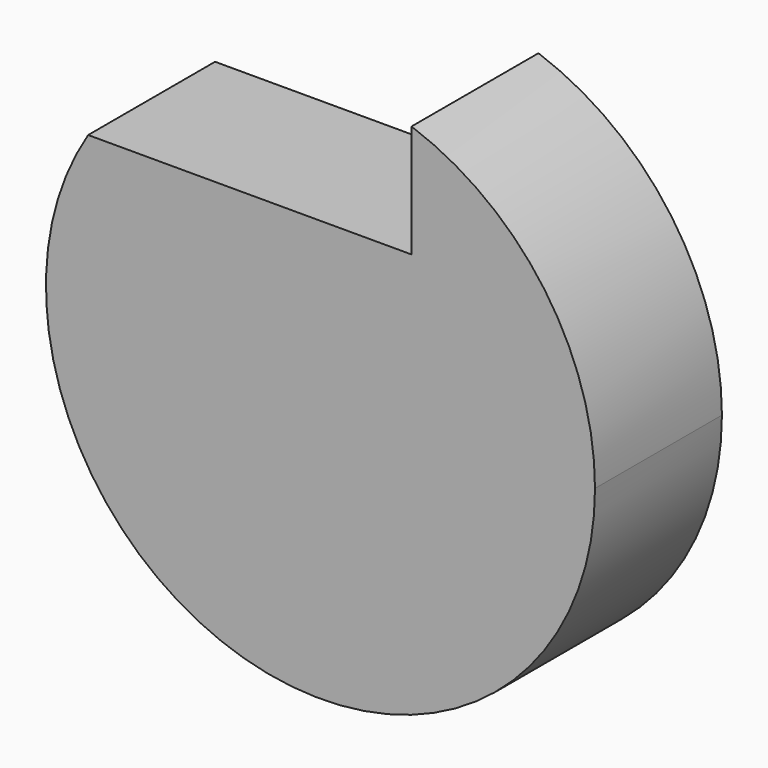
from build123d import *

# Parameters (mm, degrees)
F1_DEPTH = 25


with BuildPart() as f1:
    # F0 (on Front) → F1 (new body)
    with BuildSketch(Plane.XZ):
        with BuildLine():
            ThreePointArc((65.876798, -56.753192), (57.91671, -31.74552), (36.965679, -15.940427))
            Line((36.965679, -15.940427), (36.965679, -33.704001))
            Line((36.965679, -33.704001), (-13.996885, -33.704001))
            ThreePointArc((-13.996885, -33.704001), (10.619454, -98.319616), (65.876798, -56.753192))
        make_face()
    extrude(amount=F1_DEPTH)


solid = f1.part
